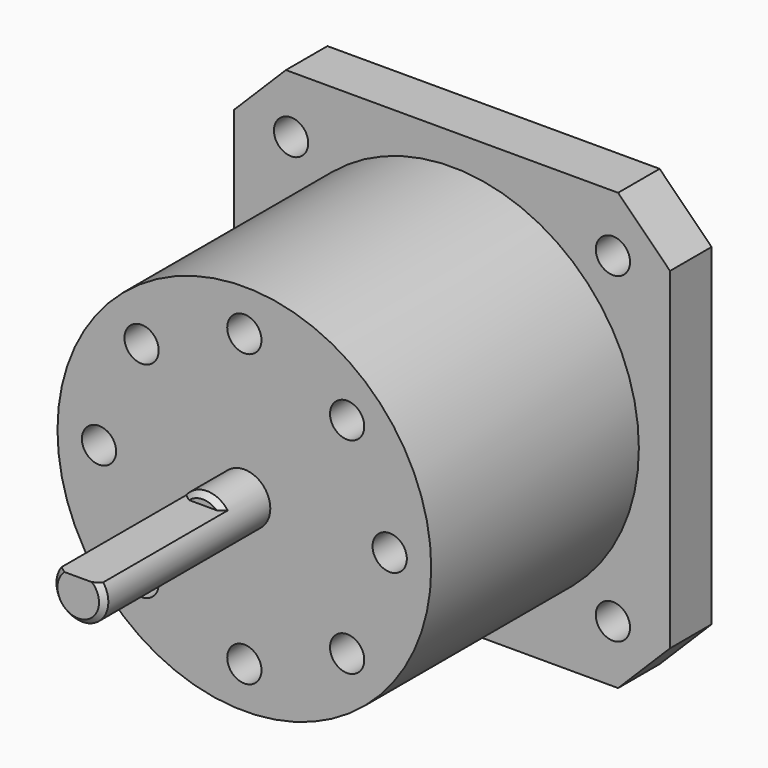
from build123d import *

# Parameters (mm, degrees)
F0_W     = 42
F0_H     = 42
F0_R     = 12.5
F1_DEPTH = 5
F2_R     = 18
F2_R_2   = 12.5
F3_DEPTH = 25
F4_R     = 2.5
F5_DEPTH = 20
F7_DEPTH = 15
F8_D     = 3.3
F9_D     = 3.3
F9_DEPTH = 6
F9_TIP   = 0.9914200214
F10_SIZE = 5
F11_SIZE = 0.5


with BuildPart() as f1:
    # F0 (on Front) → F1 (new body)
    with BuildSketch(Plane.XZ):
        Rectangle(F0_W, F0_H)
        Circle(F0_R, mode=Mode.SUBTRACT)
    extrude(amount=F1_DEPTH)

    # F2 (on face) → F3 (join)
    with BuildSketch(Plane.XZ.offset(5)):
        Circle(F2_R)
        Circle(F2_R_2, mode=Mode.SUBTRACT)
        Circle(F2_R_2)
    extrude(amount=F3_DEPTH)

    # F4 (on face) → F5 (join)
    with BuildSketch(Plane.XZ.offset(30)):
        Circle(F4_R)
    extrude(amount=F5_DEPTH)

    # F6 (on face) → F7 (cut)
    with BuildSketch(Plane.XZ.offset(50)):
        with BuildLine():
            Line((-2, 1.5), (2, 1.5))
            ThreePointArc((2, 1.5), (0, 2.5), (-2, 1.5))
        make_face()
    extrude(amount=-F7_DEPTH, mode=Mode.SUBTRACT)

    # F8 (through all)
    with Locations(Plane(origin=(0, 0, 0), x_dir=(1, 0, 0), z_dir=(0, 1, 0))):
        with Locations((-15.5, -15.5), (15.5, -15.5), (-15.5, 15.5), (15.5, 15.5)):
            Hole(F8_D / 2)

    # F9
    with Locations(Plane.XZ.offset(30)):
        with Locations((0, 14), (-14, 0), (0, -14), (14, 0), (-9.8994949366, 9.8994949366), (-9.8994949366, -9.8994949366), (9.8994949366, -9.8994949366), (9.8994949366, 9.8994949366)):
            Hole(F9_D / 2, depth=F9_DEPTH)
            with Locations((0, 0, -(F9_DEPTH + F9_TIP / 2))):  # 118° drill point
                Cone(0, F9_D / 2, F9_TIP, mode=Mode.SUBTRACT)

    # F10
    f10_edges = [f1.edges().sort_by_distance(p)[0] for p in [
        (-21, -2.5, 21),
        (21, -2.5, 21),
        (-21, -2.5, -21),
        (21, -2.5, -21),
    ]]
    chamfer(f10_edges, length=F10_SIZE)

    # F11
    f11_edges = [f1.edges().sort_by_distance(p)[0] for p in [
        (-0.790569, -50, -2.371708),
        (0, -35, 2.5),
    ]]
    chamfer(f11_edges, length=F11_SIZE)


solid = f1.part
